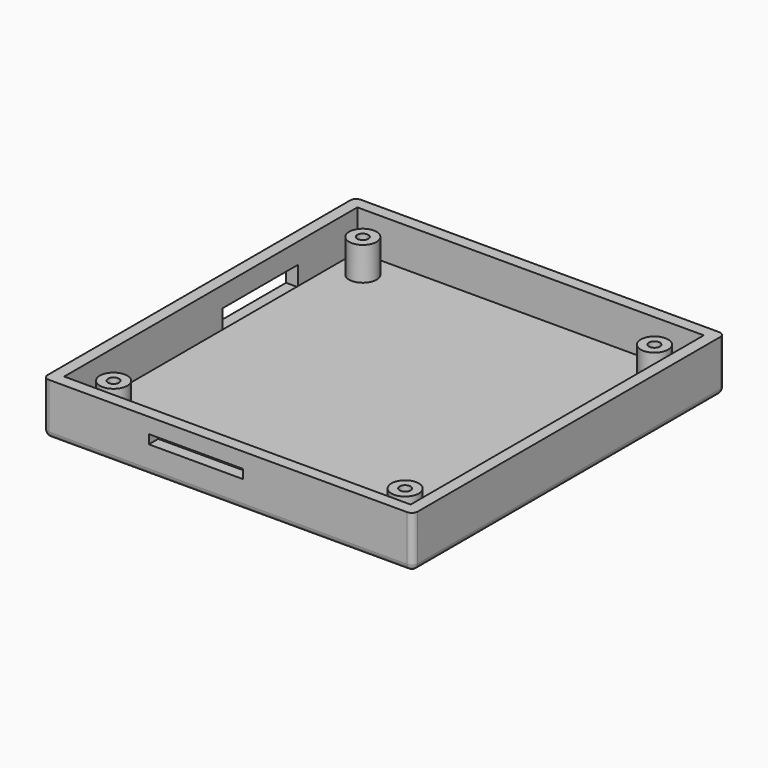
from build123d import *

# Parameters (mm, degrees)
SKETCH_W        = 94.4
SKETCH_H        = 99.5
PAD_DEPTH       = 13.2
SKETCH001_W     = 88.4
SKETCH001_H     = 93.5
POCKET_DEPTH    = 10
SKETCH002_R     = 3.5
SKETCH002_R_2   = 1.4
PAD001_DEPTH    = 8.5
SKETCH003_W     = 24
SKETCH003_H     = 2.3
POCKET001_DEPTH = 3
SKETCH004_W     = 24
SKETCH004_H     = 5
POCKET002_DEPTH = 3
FILLET_R        = 1.5


with BuildPart() as part:
    # Sketch → Pad (new body)
    with BuildSketch(Plane.XY):
        with Locations((47.2, 49.75)):
            Rectangle(SKETCH_W, SKETCH_H)
    extrude(amount=PAD_DEPTH)

    # Sketch001 (on Face6 of Pad) → Pocket (cut)
    with BuildSketch(Plane.XY.offset(13.2)):
        with Locations((47.2, 49.75)):
            Rectangle(SKETCH001_W, SKETCH001_H)
    extrude(amount=-POCKET_DEPTH, mode=Mode.SUBTRACT)

    # Sketch002 (on Face11 of Pocket) → Pad001 (join)
    with BuildSketch(Plane.XY.offset(3.2)):
        with Locations((84.4, 89.5)):
            Circle(SKETCH002_R)
        with Locations((84.4, 89.5)):
            Circle(SKETCH002_R_2, mode=Mode.SUBTRACT)
        with Locations((10, 89.5)):
            Circle(SKETCH002_R)
        with Locations((10, 89.5)):
            Circle(SKETCH002_R_2, mode=Mode.SUBTRACT)
        with Locations((10, 10)):
            Circle(SKETCH002_R)
        with Locations((10, 10)):
            Circle(SKETCH002_R_2, mode=Mode.SUBTRACT)
        with Locations((84.4, 10)):
            Circle(SKETCH002_R)
        with Locations((84.4, 10)):
            Circle(SKETCH002_R_2, mode=Mode.SUBTRACT)
    extrude(amount=PAD001_DEPTH)

    # Sketch003 (on Face1 of Pad001) → Pocket001 (cut)
    with BuildSketch(Plane.XZ):
        with Locations((39, 8.15)):
            Rectangle(SKETCH003_W, SKETCH003_H)
    extrude(amount=-POCKET001_DEPTH, mode=Mode.SUBTRACT)

    # Sketch004 (on Face2 of Pocket001) → Pocket002 (cut)
    with BuildSketch(Plane(origin=(0, 0, 0), x_dir=(0, -1, 0), z_dir=(-1, 0, 0))):
        with Locations((-65.5, 5.5)):
            Rectangle(SKETCH004_W, SKETCH004_H)
    extrude(amount=-POCKET002_DEPTH, mode=Mode.SUBTRACT)

    # Fillet
    fillet_edges = [part.edges().sort_by_distance(p)[0] for p in [
        (47.2, 0, 0),
        (94.4, 49.75, 0),
        (47.2, 99.5, 0),
        (0, 49.75, 0),
        (94.4, 0, 6.6),
        (0, 0, 6.6),
        (94.4, 99.5, 6.6),
        (0, 99.5, 6.6),
    ]]
    fillet(fillet_edges, radius=FILLET_R)


solid = part.part
